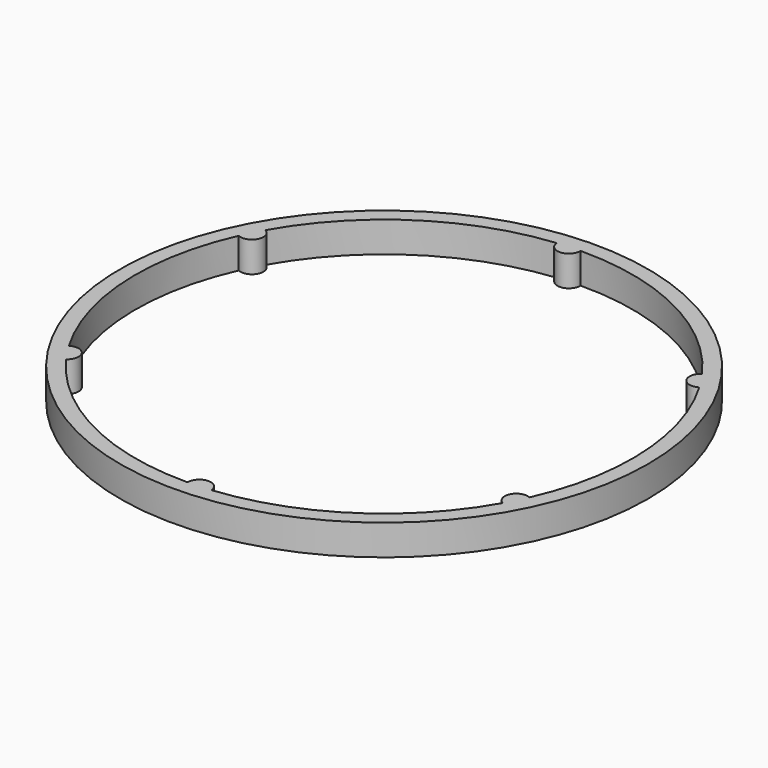
from build123d import *

# Parameters (mm, degrees)
F0_R     = 17.25
F1_DEPTH = 2


with BuildPart() as f1:
    # F0 (on Top) → F1 (new body)
    with BuildSketch(Plane.XY):
        Circle(F0_R)
        with BuildLine():
            ThreePointArc((-14.149103, 7.991582), (-8.894669, 13.599535), (-1.650921, 16.16592))
            ThreePointArc((-1.650921, 16.16592), (-0.861553, 15.476037), (-0.153638, 16.249274))
            ThreePointArc((-0.153638, 16.249274), (7.330209, 14.502777), (13.174637, 9.512699))
            ThreePointArc((13.174637, 9.512699), (12.971865, 8.484146), (13.995465, 8.257692))
            ThreePointArc((13.995465, 8.257692), (16.224878, 0.903241), (14.825557, -6.653221))
            ThreePointArc((14.825557, -6.653221), (13.833418, -6.991891), (14.149103, -7.991582))
            ThreePointArc((14.149103, -7.991582), (8.894669, -13.599535), (1.650921, -16.16592))
            ThreePointArc((1.650921, -16.16592), (0.861553, -15.476037), (0.153638, -16.249274))
            ThreePointArc((0.153638, -16.249274), (-7.330209, -14.502777), (-13.174637, -9.512699))
            ThreePointArc((-13.174637, -9.512699), (-12.971865, -8.484146), (-13.995465, -8.257692))
            ThreePointArc((-13.995465, -8.257692), (-16.224878, -0.903241), (-14.825557, 6.653221))
            ThreePointArc((-14.825557, 6.653221), (-13.833418, 6.991891), (-14.149103, 7.991582))
        make_face(mode=Mode.SUBTRACT)
    extrude(amount=F1_DEPTH)


solid = f1.part
